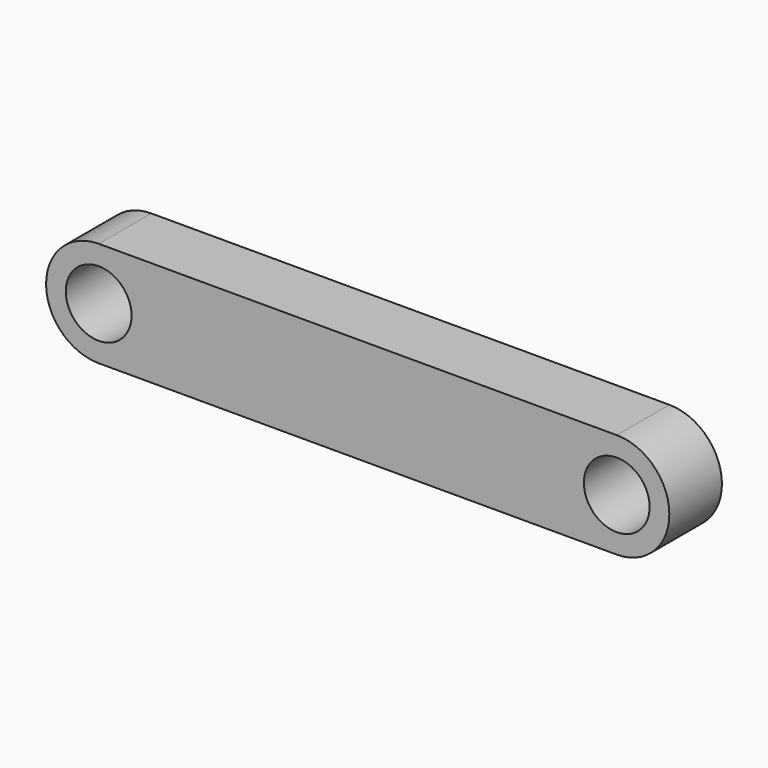
from build123d import *

# Parameters (mm, degrees)
F0_R     = 2.5
F1_DEPTH = 5


with BuildPart() as f1:
    # F0 (on Front) → F1 (new body)
    with BuildSketch(Plane.XZ):
        with BuildLine():
            Line((0, 4), (-19.7, 4))
            ThreePointArc((-19.7, 4), (-23.7, 0), (-19.7, -4))
            Line((-19.7, -4), (0, -4))
            Line((0, -4), (0, 4))
        make_face()
        with Locations((-19.7, 0)):
            Circle(F0_R, mode=Mode.SUBTRACT)
        with BuildLine():
            Line((19.7, 4), (0, 4))
            Line((0, 4), (0, -4))
            Line((0, -4), (19.7, -4))
            ThreePointArc((19.7, -4), (23.7, 0), (19.7, 4))
        make_face()
        with Locations((19.7, 0)):
            Circle(F0_R, mode=Mode.SUBTRACT)
    extrude(amount=F1_DEPTH)


solid = f1.part
